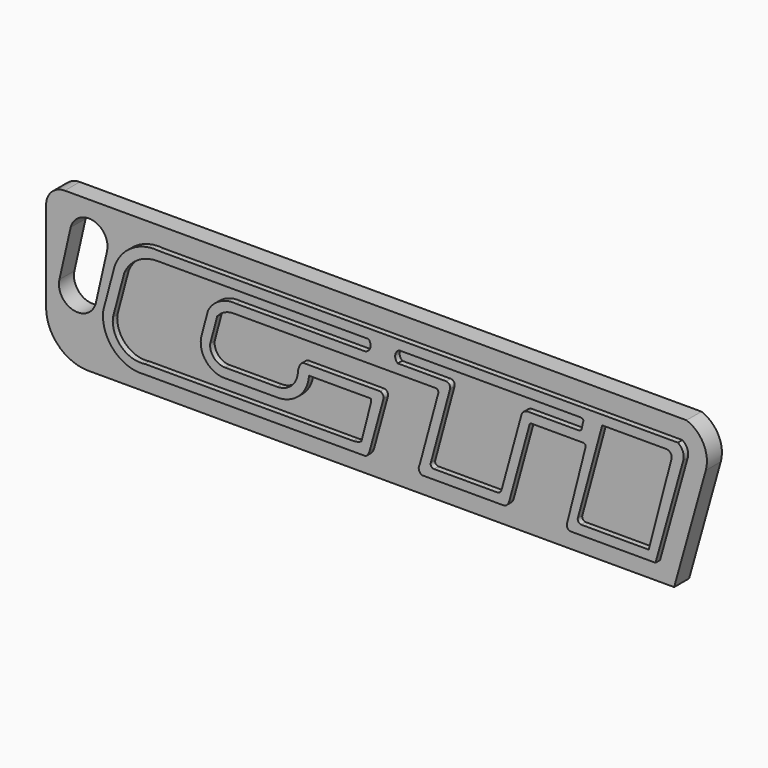
from build123d import *

# Parameters (mm, degrees)
F0_W     = 90
F0_H     = 20
F1_DEPTH = 2
F3_DEPTH = 0.6
F4_W     = 90
F4_H     = 20
F5_DEPTH = 12.5


with BuildPart() as f1:
    # F0 (on Front) → F1 (new body)
    with BuildSketch(Plane.XZ):
        with Locations((-1.023429, 14.202245)):
            Rectangle(F0_W, F0_H)
    extrude(amount=F1_DEPTH)

    # F4 (on face) → F5 (cut, symmetric)
    with BuildSketch(Plane.XZ.offset(2)):
        with Locations((-1.023429, 14.202245)):
            Rectangle(F4_W, F4_H)
        with BuildLine():
            ThreePointArc((40.958338, 20.356357), (42.773223, 18.735113), (43.012962, 16.313385))
            Line((43.012962, 16.313385), (39.640076, 4.259368))
            Line((39.640076, 4.259368), (-22.844137, 4.259368))
            ThreePointArc((-22.844137, 4.259368), (-26.026117, 5.577388), (-27.344137, 8.759368))
            Line((-27.344137, 8.759368), (-27.344137, 18.356357))
            ThreePointArc((-27.344137, 18.356357), (-26.75835, 19.770571), (-25.344137, 20.356357))
            Line((-25.344137, 20.356357), (40.958338, 20.356357))
        make_face(mode=Mode.SUBTRACT)
        with BuildLine():
            Line((-22.045259, 10.836985), (-20.84269, 16.138336))
            ThreePointArc((-20.84269, 16.138336), (-22.31015, 18.521584), (-24.723457, 17.104099))
            Line((-24.723457, 17.104099), (-25.923461, 11.812092))
            ThreePointArc((-25.923461, 11.812092), (-24.460665, 9.430176), (-22.045259, 10.836985))
        make_face()
    extrude(amount=F5_DEPTH, both=True, mode=Mode.SUBTRACT)


with BuildPart() as f3:
    # F2 (on face) → F3 (new body)
    with BuildSketch(Plane.XZ.offset(2)):
        with BuildLine():
            Line((40.511969, 18.356357), (-14.781927, 18.356357))
            ThreePointArc((-14.781927, 18.356357), (-17.683208, 17.700946), (-19.555835, 15.390045))
            Line((-19.555835, 15.390045), (-20.760898, 10.847882))
            ThreePointArc((-20.760898, 10.847882), (-19.647113, 7.476341), (-16.311429, 6.259369))
            Line((-16.311429, 6.259369), (7.233665, 6.259369))
            ThreePointArc((7.233665, 6.259369), (7.490289, 6.546283), (7.647897, 6.897475))
            Line((7.647897, 6.897475), (9.132858, 12.307275))
            ThreePointArc((9.132858, 12.307275), (9.048651, 12.647304), (8.76317, 12.85031))
            Line((8.76317, 12.85031), (0.837556, 12.85031))
            ThreePointArc((0.837556, 12.85031), (0.427002, 12.775594), (0.17565, 12.442487))
            ThreePointArc((0.17565, 12.442487), (0.065456, 12.173992), (0, 11.891241))
            ThreePointArc((0, 11.891241), (-0.656036, 10.339959), (-2.213708, 9.699241))
            Line((-2.213708, 9.699241), (-7.785189, 9.699241))
            ThreePointArc((-7.785189, 9.699241), (-8.949809, 10.208759), (-9.366026, 11.409888))
            Line((-9.366026, 11.409888), (-8.610257, 14.244024))
            ThreePointArc((-8.610257, 14.244024), (-7.830442, 14.860793), (-6.860833, 15.080733))
            Line((-6.860833, 15.080733), (14.789964, 15.080733))
            ThreePointArc((14.789964, 15.080733), (14.945787, 14.899525), (14.960353, 14.660978))
            Line((14.960353, 14.660978), (12.977388, 7.314254))
            ThreePointArc((12.977388, 7.314254), (12.902171, 6.813726), (13.222572, 6.421899))
            Line((13.222572, 6.421899), (22.005849, 6.421899))
            ThreePointArc((22.005849, 6.421899), (22.329555, 6.620061), (22.517713, 6.949682))
            Line((22.517713, 6.949682), (24.718596, 14.986239))
            ThreePointArc((24.718596, 14.986239), (24.846393, 15.046083), (24.986006, 15.066611))
            Line((24.986006, 15.066611), (30.173999, 15.066611))
            Line((30.173999, 15.066611), (30.448972, 15.066611))
            ThreePointArc((30.448972, 15.066611), (30.637031, 14.950078), (30.675194, 14.732156))
            Line((30.675194, 14.732156), (28.706573, 6.956836))
            ThreePointArc((28.706573, 6.956836), (28.747623, 6.510733), (29.142261, 6.298708))
            Line((29.142261, 6.298708), (38.133892, 6.298708))
            Line((38.133892, 6.298708), (41.08694, 16.852313))
            ThreePointArc((41.08694, 16.852313), (41.047823, 17.699282), (40.511969, 18.356357))
        make_face()
        with BuildLine():
            Line((-19.741228, 10.503771), (-18.518419, 15.112824))
            ThreePointArc((-18.518419, 15.112824), (-17.101634, 16.747143), (-15.026269, 17.356357))
            Line((-15.026269, 17.356357), (7.525786, 17.356357))
            ThreePointArc((7.525786, 17.356357), (7.722787, 16.61678), (7.176492, 16.080733))
            Line((7.176492, 16.080733), (-6.588344, 16.080733))
            ThreePointArc((-6.588344, 16.080733), (-8.333991, 15.735058), (-9.591171, 14.475586))
            Line((-9.591171, 14.475586), (-10.284564, 11.875363))
            ThreePointArc((-10.284564, 11.875363), (-9.868832, 9.714337), (-7.916283, 8.699241))
            Line((-7.916283, 8.699241), (-2.180934, 8.699241))
            ThreePointArc((-2.180934, 8.699241), (0.122362, 9.610244), (1.179344, 11.85031))
            Line((1.179344, 11.85031), (7.789848, 11.85031))
            ThreePointArc((7.789848, 11.85031), (7.813339, 11.663701), (7.789848, 11.477092))
            Line((7.789848, 11.477092), (6.770179, 7.491111))
            ThreePointArc((6.770179, 7.491111), (6.344858, 7.318274), (5.889555, 7.259369))
            Line((5.889555, 7.259369), (-16.311429, 7.259369))
            ThreePointArc((-16.311429, 7.259369), (-18.82347, 8.038877), (-19.741228, 10.503771))
        make_face(mode=Mode.SUBTRACT)
        with BuildLine():
            ThreePointArc((10.643511, 16.080733), (10.371893, 16.760575), (10.797339, 17.356357))
            Line((10.797339, 17.356357), (30.049997, 17.356357))
            ThreePointArc((30.049997, 17.356357), (30.266527, 17.313885), (30.450967, 17.192762))
            Line((30.450967, 17.192762), (30.243494, 16.25029))
            ThreePointArc((30.243494, 16.25029), (30.101385, 16.115597), (29.911813, 16.066611))
            Line((29.911813, 16.066611), (24.536972, 16.066611))
            ThreePointArc((24.536972, 16.066611), (24.046371, 15.881564), (23.800184, 15.418614))
            Line((23.800184, 15.418614), (21.716854, 7.8113))
            ThreePointArc((21.716854, 7.8113), (21.579109, 7.568882), (21.342178, 7.421899))
            Line((21.342178, 7.421899), (14.51023, 7.421899))
            ThreePointArc((14.51023, 7.421899), (14.204866, 7.58904), (14.181082, 7.93634))
            Line((14.181082, 7.93634), (16.222509, 15.49966))
            ThreePointArc((16.222509, 15.49966), (16.156668, 15.883008), (15.821711, 16.080733))
            Line((15.821711, 16.080733), (10.643511, 16.080733))
        make_face(mode=Mode.SUBTRACT)
        with BuildLine():
            Line((29.851789, 7.808543), (32.447312, 17.356357))
            Line((32.447312, 17.356357), (39.260555, 17.356357))
            ThreePointArc((39.260555, 17.356357), (39.703301, 17.16329), (39.863091, 16.707477))
            Line((39.863091, 16.707477), (37.406612, 7.298708))
            Line((37.406612, 7.298708), (30.17623, 7.298708))
            ThreePointArc((30.17623, 7.298708), (29.901366, 7.481944), (29.851789, 7.808543))
        make_face(mode=Mode.SUBTRACT)
    extrude(amount=F3_DEPTH)


solid = Compound([f1.part, f3.part])
